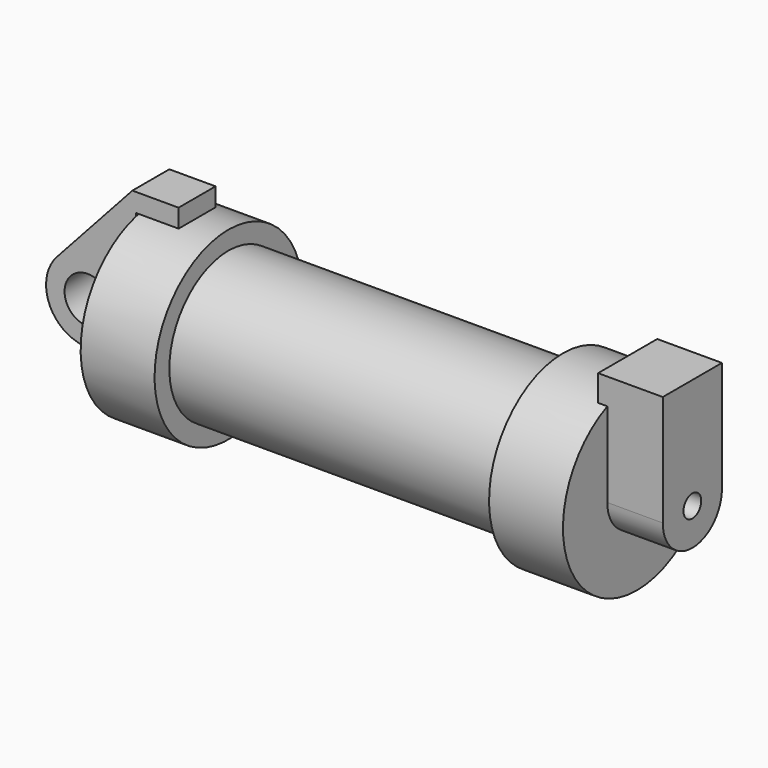
from build123d import *

# Parameters (mm, degrees)
F0_W     = 5.842
F0_H     = 12.7
F0_R     = 3.175
F2_DEPTH = 3.175
F3_R     = 1.524
F4_DEPTH = 7.62
F5_DEPTH = 1.27


with BuildPart() as f1:
    # F0 (on Front) → F1 (revolve)
    with BuildSketch(Plane.XZ):
        Polygon((5.842, 12.7), (5.842, 0), (66.294, 0), (66.294, 12.7), (56.134, 12.7), (56.134, 10.16), (10.16, 10.16), (10.16, 12.7), align=None)
        with Locations((2.921, 6.35)):
            Rectangle(F0_W, F0_H)
    revolve(axis=Axis((33.147, 0, 0), (-1, 0, 0)))

    # F3 (on face) → F4 (join)
    with BuildSketch(Plane.YZ.offset(66.294)):
        with BuildLine():
            ThreePointArc((-5.08, 0), (0, -5.08), (5.08, 0))
            ThreePointArc((5.08, 0), (0, 5.08), (-5.08, 0))
        make_face()
        Circle(F3_R, mode=Mode.SUBTRACT)
        with BuildLine():
            ThreePointArc((-5.08, 0), (0, 5.08), (5.08, 0))
            Line((5.08, 0), (5.08, 15.24))
            Line((5.08, 15.24), (-5.08, 15.24))
            Line((-5.08, 15.24), (-5.08, 0))
        make_face()
    extrude(amount=F4_DEPTH)

    # F5 (add): a face of the model
    f5_faces = [f1.faces().sort_by_distance(p)[0] for p in [
        (66.294, 0, 13.7792682875),
    ]]
    extrude(f5_faces, amount=F5_DEPTH)


with BuildPart() as f2:
    # F0 (on Front) → F2 (new body, symmetric)
    with BuildSketch(Plane.XZ):
        with BuildLine():
            Line((-0.9398, 0), (0, 0))
            Line((0, 0), (0, 12.7))
            Line((0, 12.7), (5.842, 12.7))
            Line((5.842, 12.7), (5.842, 15.24))
            Line((5.842, 15.24), (-0.508, 15.24))
            Line((-0.508, 15.24), (-10.8806298187, 3.8475430269))
            ThreePointArc((-10.8806298187, 3.8475430269), (-4.5919612295, 5.3297205562), (-0.9398, 0))
        make_face()
        with BuildLine():
            ThreePointArc((-8.1826630726, -5.5069827884), (-3.1957909266, -4.5493385486), (-0.9398, 0))
            ThreePointArc((-0.9398, 0), (-4.5919612295, 5.3297205562), (-10.8806298187, 3.8475430269))
            ThreePointArc((-10.8806298187, 3.8475430269), (-12.1459778134, -1.5837270034), (-8.1826630726, -5.5069827884))
        make_face()
        with Locations((-6.6548, 0)):
            Circle(F0_R, mode=Mode.SUBTRACT)
        with BuildLine():
            Line((5.842, 0), (0, 0))
            Line((0, 0), (-0.9398, 0))
            ThreePointArc((-0.9398, 0), (-3.1957909266, -4.5493385486), (-8.1826630726, -5.5069827884))
            Line((-8.1826630726, -5.5069827884), (5.842, -9.398))
            Line((5.842, -9.398), (5.842, 0))
        make_face()
    extrude(amount=F2_DEPTH, both=True)


solid = Compound([f1.part, f2.part])
